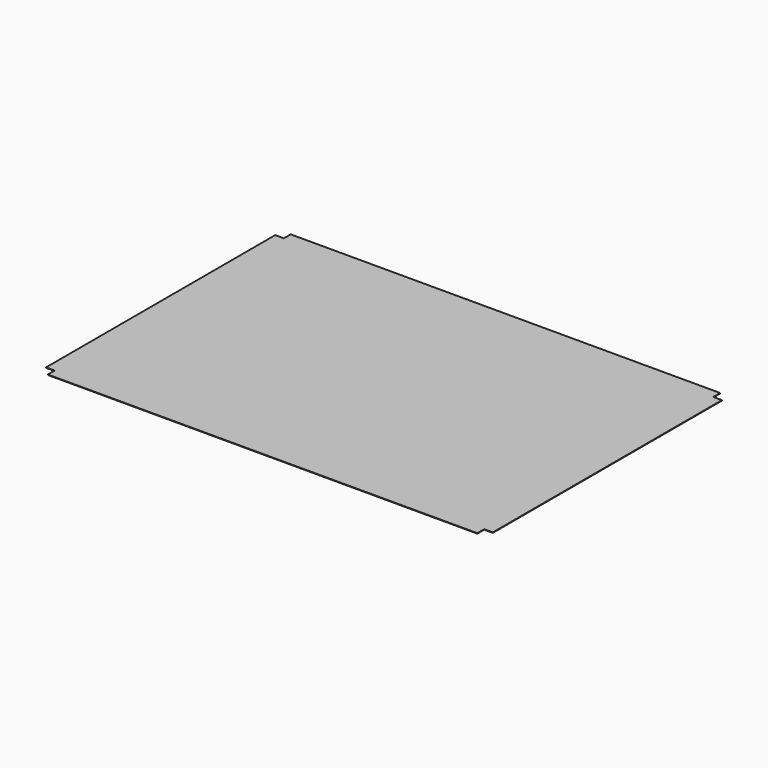
from build123d import *

# Parameters (mm, degrees)
F0_W     = 1500
F0_H     = 30
F0_H_2   = 1000
F0_W_2   = 30
F1_DEPTH = 1.6


with BuildPart() as f1:
    # F0 (on Top) → F1 (new body)
    with BuildSketch(Plane.XY):
        with Locations((0, -515)):
            Rectangle(F0_W, F0_H)
        Rectangle(F0_W, F0_H_2)
        with Locations((765, 0)):
            Rectangle(F0_W_2, F0_H_2)
        with Locations((-765, 0)):
            Rectangle(F0_W_2, F0_H_2)
        with Locations((0, 515)):
            Rectangle(F0_W, F0_H)
    extrude(amount=F1_DEPTH)


solid = f1.part
